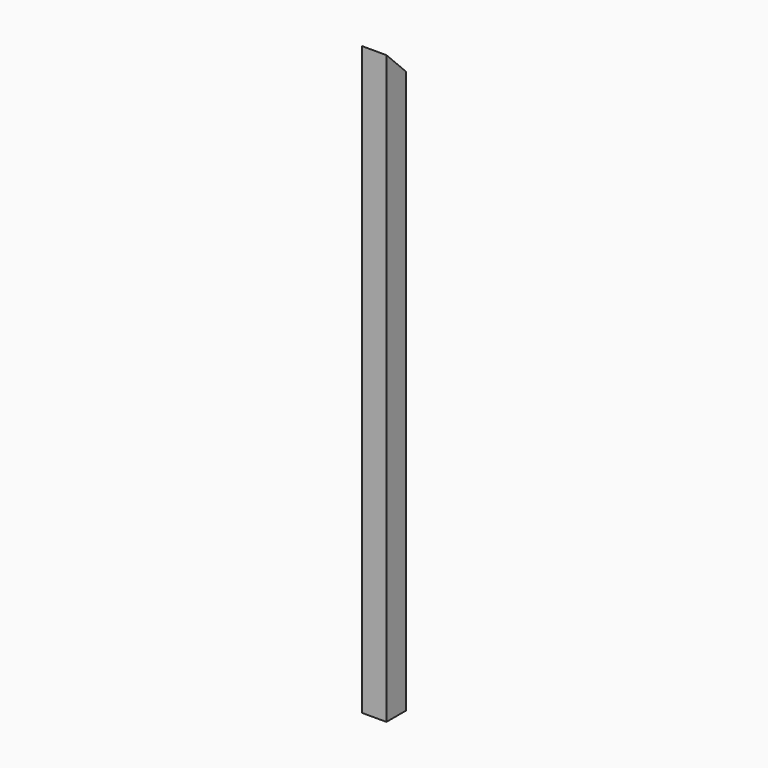
from build123d import *

# Parameters (mm, degrees)
F0_W          = 50
F0_H          = 50
F1_DEPTH      = 1200
F3_DEPTH      = 25.001
F3_DEPTH_BACK = 25.001


with BuildPart() as f1:
    # F0 (on Top) → F1 (new body)
    with BuildSketch(Plane.XY):
        Rectangle(F0_W, F0_H)
    extrude(amount=F1_DEPTH)

    # F2 (on Right) → F3 (cut, two sides)
    with BuildSketch(Plane.YZ) as f3_sk:
        Polygon((135.3058686236, 1200), (-25, 1200), (135.3058686236, 1039.6941313764), align=None)
    extrude(amount=-F3_DEPTH, mode=Mode.SUBTRACT)
    extrude(f3_sk.sketch, amount=F3_DEPTH_BACK, mode=Mode.SUBTRACT)


solid = f1.part
